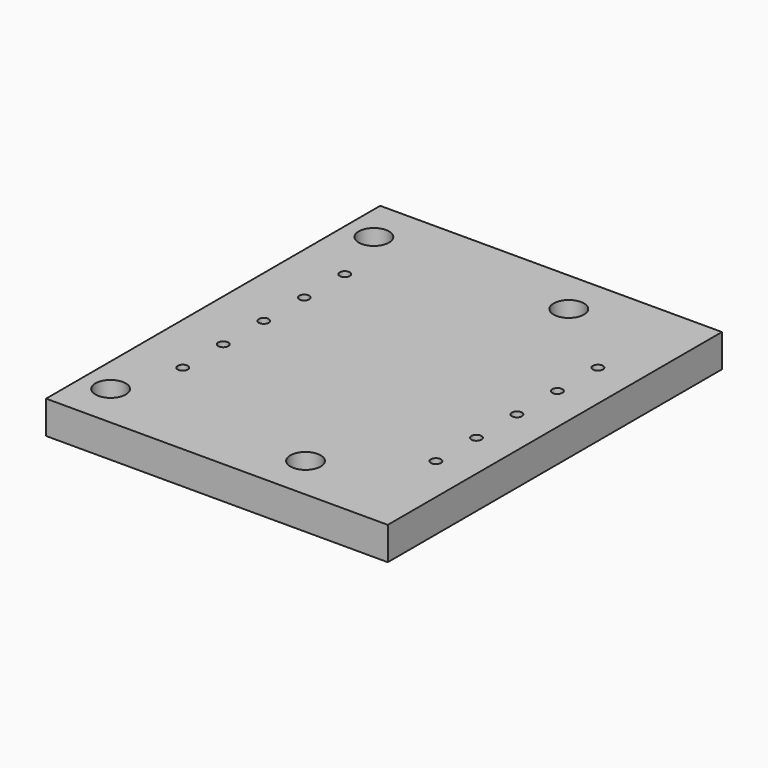
from build123d import *

# Parameters (mm, degrees)
F0_W     = 135
F0_H     = 165
F0_R     = 6
F0_R_2   = 2
F0_R_3   = 3
F1_DEPTH = 13
F2_R     = 6
F3_DEPTH = 7
F4_R     = 4
F5_DEPTH = 5


with BuildPart() as f1:
    # F0 (on Top) → F1 (new body)
    with BuildSketch(Plane.XY):
        with Locations((17.5, 0)):
            Rectangle(F0_W, F0_H)
        with Locations((-38.5, -65)):
            Circle(F0_R, mode=Mode.SUBTRACT)
        with Locations((-30, -40)):
            Circle(F0_R_2, mode=Mode.SUBTRACT)
        with Locations((-30, -20)):
            Circle(F0_R_2, mode=Mode.SUBTRACT)
        with Locations((38.5, -65)):
            Circle(F0_R, mode=Mode.SUBTRACT)
        with Locations((70, -40)):
            Circle(F0_R_2, mode=Mode.SUBTRACT)
        with Locations((70, -20)):
            Circle(F0_R_2, mode=Mode.SUBTRACT)
        with Locations((-30, 0)):
            Circle(F0_R_2, mode=Mode.SUBTRACT)
        with Locations((-30, 20)):
            Circle(F0_R_2, mode=Mode.SUBTRACT)
        with Locations((-30, 40)):
            Circle(F0_R_2, mode=Mode.SUBTRACT)
        with Locations((-38.5, 65)):
            Circle(F0_R, mode=Mode.SUBTRACT)
        with Locations((70, 0)):
            Circle(F0_R_2, mode=Mode.SUBTRACT)
        with Locations((70, 20)):
            Circle(F0_R_2, mode=Mode.SUBTRACT)
        with Locations((70, 40)):
            Circle(F0_R_2, mode=Mode.SUBTRACT)
        with Locations((38.5, 65)):
            Circle(F0_R, mode=Mode.SUBTRACT)
        with Locations((-38.5, 65)):
            Circle(F0_R)
        with Locations((-38.5, 65)):
            Circle(F0_R_3, mode=Mode.SUBTRACT)
        with Locations((38.5, 65)):
            Circle(F0_R)
        with Locations((38.5, 65)):
            Circle(F0_R_3, mode=Mode.SUBTRACT)
        with Locations((38.5, -65)):
            Circle(F0_R)
        with Locations((38.5, -65)):
            Circle(F0_R_3, mode=Mode.SUBTRACT)
        with Locations((-38.5, -65)):
            Circle(F0_R)
        with Locations((-38.5, -65)):
            Circle(F0_R_3, mode=Mode.SUBTRACT)
    extrude(amount=-F1_DEPTH)

    # F0 (on Top) + F2 (on face) → F3 (cut)
    with BuildSketch(Plane.XY):
        with Locations((-38.5, 65)):
            Circle(F0_R)
        with Locations((-38.5, 65)):
            Circle(F0_R_3, mode=Mode.SUBTRACT)
        with Locations((-38.5, 65)):
            Circle(F0_R_3)
        with Locations((38.5, 65)):
            Circle(F0_R)
        with Locations((38.5, 65)):
            Circle(F0_R_3, mode=Mode.SUBTRACT)
        with Locations((38.5, 65)):
            Circle(F0_R_3)
        with Locations((-38.5, -65)):
            Circle(F0_R)
        with Locations((-38.5, -65)):
            Circle(F0_R_3, mode=Mode.SUBTRACT)
        with Locations((38.5, -65)):
            Circle(F0_R)
        with Locations((38.5, -65)):
            Circle(F0_R_3, mode=Mode.SUBTRACT)
        with Locations((38.5, -65)):
            Circle(F0_R_3)
    with BuildSketch(Plane.XY):
        with Locations((-38.5, 65)):
            Circle(F2_R)
        with Locations((-38.5, -65)):
            Circle(F2_R)
    extrude(amount=-F3_DEPTH, mode=Mode.SUBTRACT)

    # F4 (on face) → F5 (cut)
    with BuildSketch(Plane(origin=(0, 0, -13), x_dir=(1, 0, 0), z_dir=(0, 0, -1))):
        with Locations((-30, 40)):
            Circle(F4_R)
        with Locations((-30, 20)):
            Circle(F4_R)
        with Locations((-30, 0)):
            Circle(F4_R)
        with Locations((-30, -20)):
            Circle(F4_R)
        with Locations((-30, -40)):
            Circle(F4_R)
        with Locations((70, 40)):
            Circle(F4_R)
        with Locations((70, 0)):
            Circle(F4_R)
        with Locations((70, -20)):
            Circle(F4_R)
        with Locations((70, -40)):
            Circle(F4_R)
        with Locations((70, 20)):
            Circle(F4_R)
    extrude(amount=-F5_DEPTH, mode=Mode.SUBTRACT)


solid = f1.part
